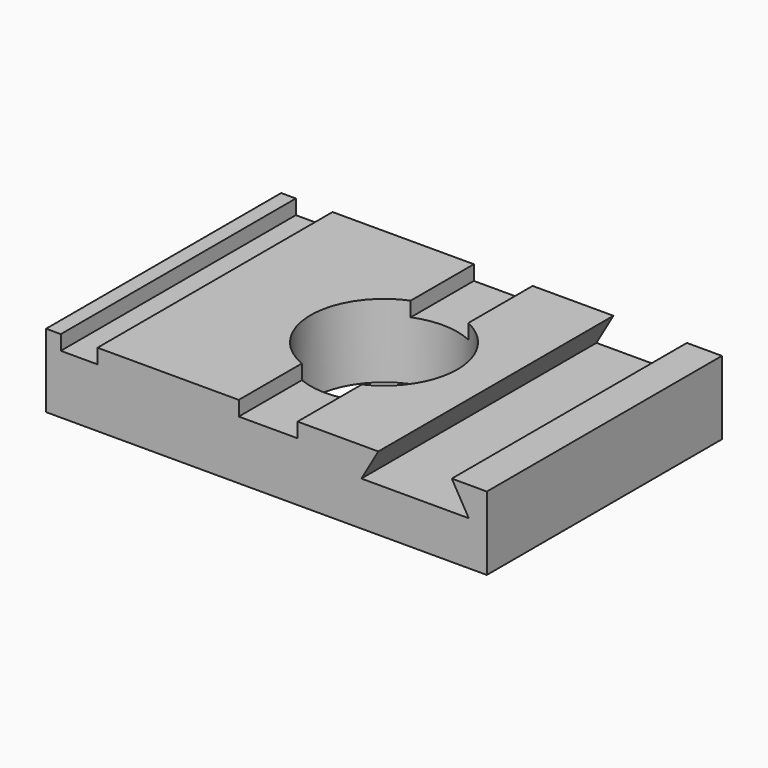
from build123d import *

# Parameters (mm, degrees)
F0_W     = 76.2
F0_H     = 50.8
F0_R     = 12.7
F1_DEPTH = 12.7
F2_W     = 6.35
F2_H     = 50.8
F3_DEPTH = 2.54
F5_DEPTH = 50.801


with BuildPart() as f1:
    # F0 (on Top) → F1 (new body)
    with BuildSketch(Plane.XY):
        Rectangle(F0_W, F0_H)
        Circle(F0_R, mode=Mode.SUBTRACT)
    extrude(amount=F1_DEPTH)

    # F2 (on face) → F3 (cut)
    with BuildSketch(Plane.XY.offset(12.7)):
        with Locations((-32.385, 0)):
            Rectangle(F2_W, F2_H)
        with BuildLine():
            Line((5.37053629, 25.4), (-4.78946371, 25.4))
            Line((-4.78946371, 25.4), (-4.78946371, 11.7622717776))
            ThreePointArc((-4.78946371, 11.7622717776), (0.3170199067, 12.6960426267), (5.37053629, 11.5085767999))
            Line((5.37053629, 11.5085767999), (5.37053629, 25.4))
        make_face()
        with BuildLine():
            Line((-4.78946371, -11.7622717776), (-4.78946371, -25.4))
            Line((-4.78946371, -25.4), (5.37053629, -25.4))
            Line((5.37053629, -25.4), (5.37053629, -11.5085767999))
            ThreePointArc((5.37053629, -11.5085767999), (0.3170199067, -12.6960426267), (-4.78946371, -11.7622717776))
        make_face()
    extrude(amount=-F3_DEPTH, mode=Mode.SUBTRACT)

    # F4 (on face) → F5 (cut, through all)
    with BuildSketch(Plane.XZ.offset(25.4)):
        Polygon((32.04053629, 12.7), (19.34053629, 12.7), (16.4075969225, 7.62), (34.9734756574, 7.62), align=None)
    extrude(amount=-F5_DEPTH, mode=Mode.SUBTRACT)


solid = f1.part
